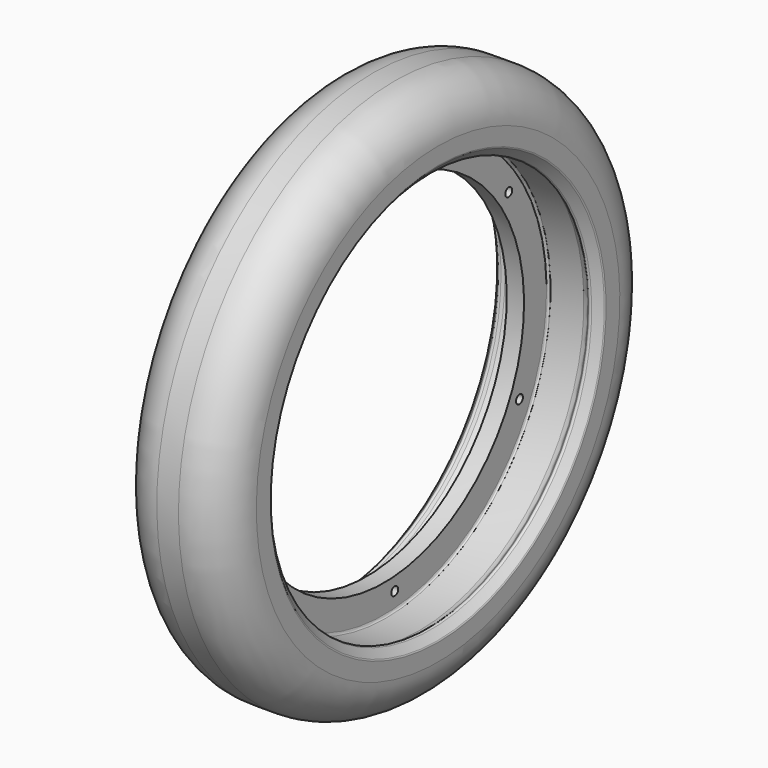
from build123d import *

# Parameters (mm, degrees)
F3_D           = 2
F3_CSINK_D     = 5
F3_CSINK_ANGLE = 90


with BuildPart() as f1:
    # F0 (on Front) → F1 (revolve)
    with BuildSketch(Plane.XZ):
        with BuildLine():
            Line((2.5, 62.5), (-2.5, 62.5))
            ThreePointArc((-2.5, 62.5), (-9.571068, 59.571068), (-12.5, 52.5))
            Line((-12.5, 52.5), (-12.5, 48.516634))
            ThreePointArc((-12.5, 48.516634), (-12.466143, 48.335773), (-12.369157, 48.179406))
            Line((-12.369157, 48.179406), (-10.813856, 46.476853))
            ThreePointArc((-10.813856, 46.476853), (-10.467276, 46.314592), (-10.10747, 46.444925))
            Line((-10.10747, 46.444925), (-9.572924, 46.933238))
            ThreePointArc((-9.572924, 46.933238), (-8.947454, 47.321183), (-8.224009, 47.456611))
            Line((-8.224009, 47.456611), (-5, 47.456611))
            ThreePointArc((-5, 47.456611), (-4.292893, 47.163718), (-4, 46.456611))
            Line((-4, 46.456611), (-4, 40.456611))
            Line((-4, 40.456611), (0, 40.456611))
            Line((0, 40.456611), (0, 46.956611))
            ThreePointArc((0, 46.956611), (0.146447, 47.310165), (0.5, 47.456611))
            Line((0.5, 47.456611), (8.224009, 47.456611))
            ThreePointArc((8.224009, 47.456611), (8.947454, 47.321183), (9.572924, 46.933238))
            Line((9.572924, 46.933238), (10.10747, 46.444925))
            ThreePointArc((10.10747, 46.444925), (10.467276, 46.314592), (10.813856, 46.476853))
            Line((10.813856, 46.476853), (12.369157, 48.179406))
            ThreePointArc((12.369157, 48.179406), (12.466143, 48.335773), (12.5, 48.516634))
            Line((12.5, 48.516634), (12.5, 52.5))
            ThreePointArc((12.5, 52.5), (9.571068, 59.571068), (2.5, 62.5))
        make_face()
    revolve(axis=Axis((1.797364, 0, 0), (1, 0, 0)))

    # F3 (through all)
    with Locations(Plane(origin=(-4, 0, 0), x_dir=(0, -1, 0), z_dir=(-1, 0, 0))):
        with Locations((-3.104731, -43.389061), (36.023664, -24.383306), (39.128395, 19.005755), (3.104731, 43.389061), (-36.023664, 24.383306), (-39.128395, -19.005755)):
            CounterSinkHole(F3_D / 2, F3_CSINK_D / 2, counter_sink_angle=F3_CSINK_ANGLE)


solid = f1.part
